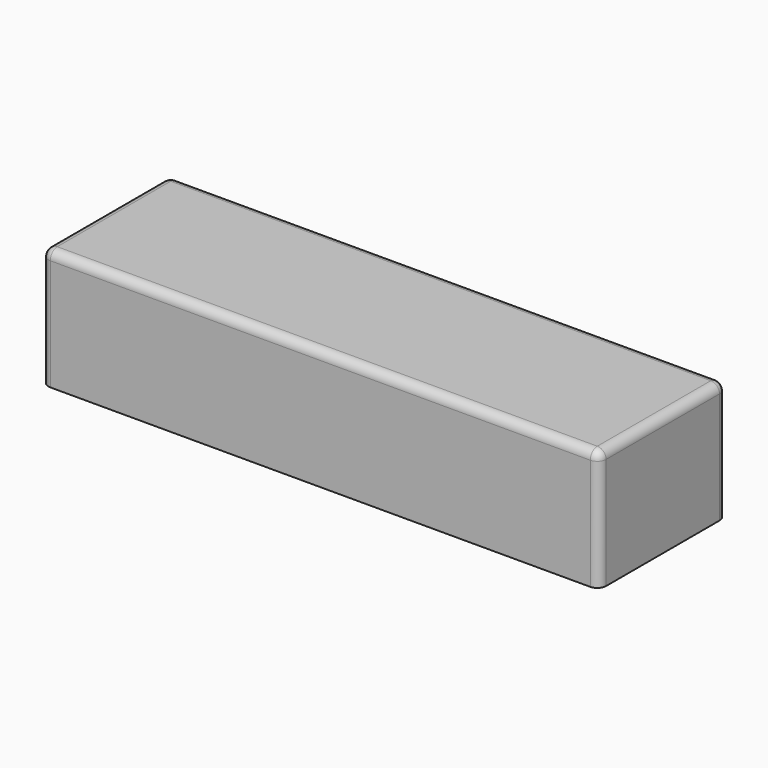
from build123d import *

# Parameters (mm, degrees)
F0_W     = 2133.6
F0_H     = 609.6
F1_DEPTH = 460.248
F2_R     = 33.528
F3_R     = 33.528


with BuildPart() as f1:
    # F0 (on Top) → F1 (new body)
    with BuildSketch(Plane.XY):
        Rectangle(F0_W, F0_H)
    extrude(amount=F1_DEPTH)

    # F2
    f2_edges = [f1.edges().sort_by_distance(p)[0] for p in [
        (1066.8, -304.8, 230.124),
        (1066.8, 304.8, 230.124),
        (-1066.8, -304.8, 230.124),
        (-1066.8, 304.8, 230.124),
    ]]
    fillet(f2_edges, radius=F2_R)

    # F3
    f3_edges = [f1.edges().sort_by_distance(p)[0] for p in [
        (0, -304.8, 460.248),
    ]]
    fillet(f3_edges, radius=F3_R)


solid = f1.part
